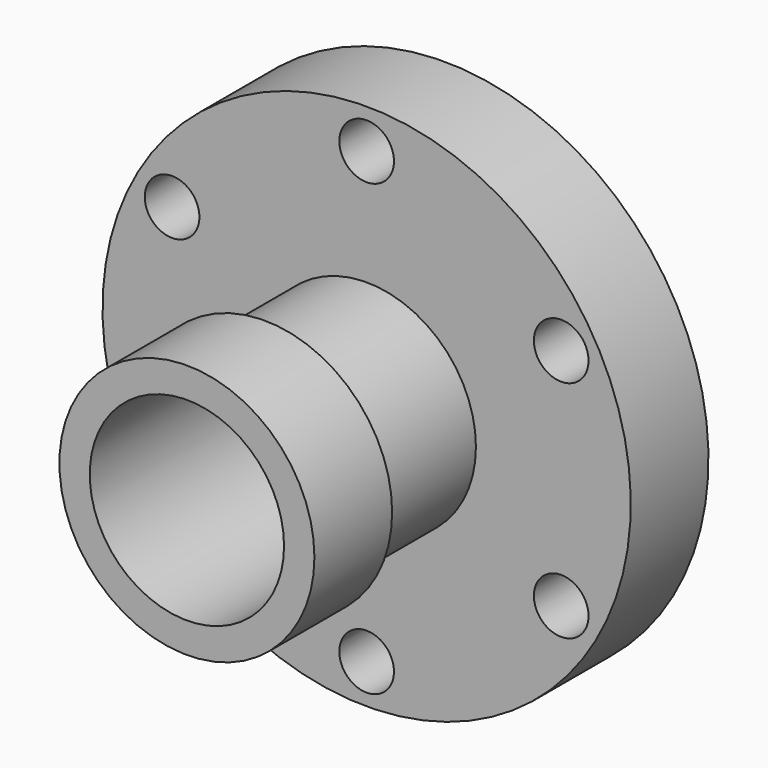
from build123d import *

# Parameters (mm, degrees)
SKETCH039_R            = 14.2875
SKETCH039_R_2          = 12.7
PAD036_DEPTH           = 29.21
SKETCH037_R            = 16.66875
SKETCH037_R_2          = 12.7
PAD041_DEPTH           = 12.7
SKETCH041_R            = 3.571875
PAD038_DEPTH           = 13
SKETCH040_R            = 34.528125
SKETCH040_R_2          = 14.2875
PAD037_DEPTH           = 12.7
CUT028_PLACEMENT_ANGLE = 60
CUT027_PLACEMENT_ANGLE = 60
CUT031_PLACEMENT_ANGLE = 60
CUT032_PLACEMENT_ANGLE = 60
CUT029_PLACEMENT_ANGLE = 60


with BuildPart() as body036:
    # Sketch039 → Pad036 (new body)
    with BuildSketch(Plane.XZ):
        Circle(SKETCH039_R)
        Circle(SKETCH039_R_2, mode=Mode.SUBTRACT)
    extrude(amount=PAD036_DEPTH)


with BuildPart() as body036_1:
    # Body036 placement: moved
    add(body036.part.moved(Location((0, -0.16, 0))))


with BuildPart() as body037:
    # Sketch037 → Pad041 (new body)
    with BuildSketch(Plane.XZ):
        Circle(SKETCH037_R)
        Circle(SKETCH037_R_2, mode=Mode.SUBTRACT)
    extrude(amount=PAD041_DEPTH)


with BuildPart() as body037_1:
    # Body037 placement: moved
    add(body037.part.moved(Location((0, -29.37, 0))))


with BuildPart() as body040:
    # Sketch041 → Pad038 (new body)
    with BuildSketch(Plane.XZ):
        with Locations((0, 29.36875)):
            Circle(SKETCH041_R)
    extrude(amount=PAD038_DEPTH)


with BuildPart() as fusion002:
    # Sketch040 → Pad037 (new body)
    with BuildSketch(Plane.XZ):
        Circle(SKETCH040_R)
        Circle(SKETCH040_R_2, mode=Mode.SUBTRACT)
    extrude(amount=PAD037_DEPTH)

    # Cut028: cut Body040
    add(body040.part, mode=Mode.SUBTRACT)


with BuildPart() as fusion002_1:
    # Cut028 placement: moved
    add(fusion002.part.rotate(Axis((0, 0, 0), (0, 1, 0)), CUT028_PLACEMENT_ANGLE))

    # Cut027: cut Body040
    add(body040.part, mode=Mode.SUBTRACT)


with BuildPart() as fusion002_2:
    # Cut027 placement: moved
    add(fusion002_1.part.rotate(Axis((0, 0, 0), (0, 1, 0)), CUT027_PLACEMENT_ANGLE))

    # Cut031: cut Body040
    add(body040.part, mode=Mode.SUBTRACT)


with BuildPart() as fusion002_3:
    # Cut031 placement: moved
    add(fusion002_2.part.rotate(Axis((0, 0, 0), (0, 1, 0)), CUT031_PLACEMENT_ANGLE))

    # Cut032: cut Body040
    add(body040.part, mode=Mode.SUBTRACT)


with BuildPart() as fusion002_4:
    # Cut032 placement: moved
    add(fusion002_3.part.rotate(Axis((0, 0, 0), (0, 1, 0)), CUT032_PLACEMENT_ANGLE))

    # Cut029: cut Body040
    add(body040.part, mode=Mode.SUBTRACT)


with BuildPart() as fusion002_5:
    # Cut029 placement: moved
    add(fusion002_4.part.rotate(Axis((0, 0, 0), (0, 1, 0)), CUT029_PLACEMENT_ANGLE))

    # Cut030: cut Body040
    add(body040.part, mode=Mode.SUBTRACT)

    # Fusion002: union Body036, Body037
    add(body036_1.part)
    add(body037_1.part)


solid = fusion002_5.part
